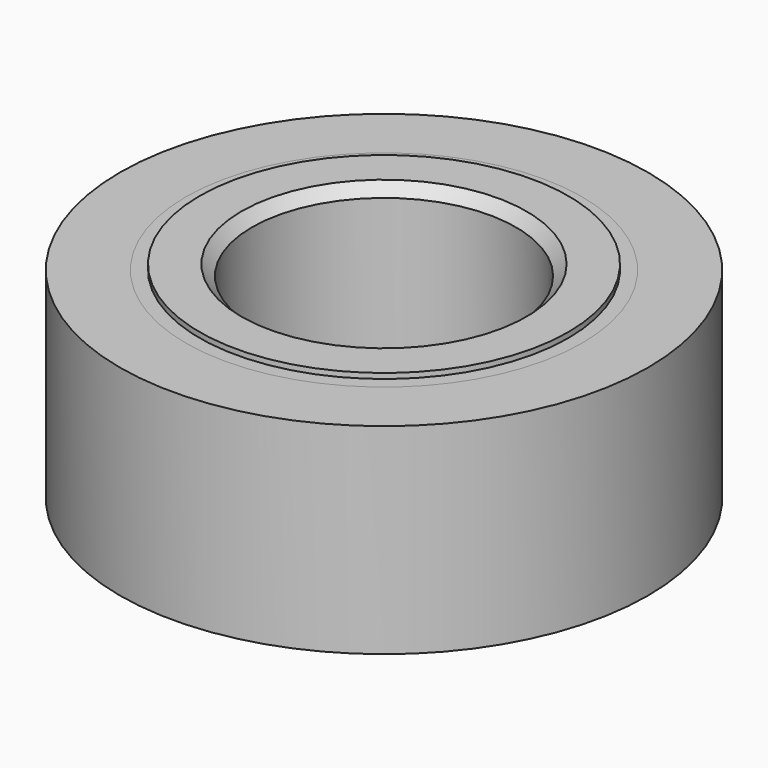
from build123d import *

# Parameters (mm, degrees)
ARRAY_COUNT  = 12
SKETCH002_R  = 3.49
PAD_DEPTH    = 0.1
SKETCH003_R  = 3.49
PAD001_DEPTH = 0.1
SKETCH004_R  = 2.5
POCKET_DEPTH = 5
CHAMFER_SIZE = 0.2


with BuildPart() as array:
    # Sphere → Sphere (revolve)
    with BuildSketch(Plane.XZ.offset(-3.75)):
        with BuildLine():
            ThreePointArc((0, -0.93), (0.93, 0), (0, 0.93))
            Line((0, 0.93), (0, -0.93))
        make_face()
    revolve(axis=Axis((0, 3.75, 0), (0, 0, 1)))

    # Array: Array ×12 about axis
    array_axis = Axis((0, 0, 0), (0, 0, 1))


with BuildPart() as array_1:
    add(array.part)
    for i in range(1, ARRAY_COUNT):
        add(array.part.rotate(array_axis, i * 360 / ARRAY_COUNT))


with BuildPart() as chamfer_body:
    # Sketch → Revolution (revolve)
    with BuildSketch(Plane.XZ):
        with BuildLine():
            Line((0, 1.9), (-3.75, 1.9))
            Line((-3.75, 1.9), (-3.75, 0.94))
            ThreePointArc((-3.75, -0.94), (-2.81, 0), (-3.75, 0.94))
            Line((-3.75, -0.94), (-3.75, -1.9))
            Line((-3.75, -1.9), (0, -1.9))
            Line((0, -1.9), (0, 1.9))
        make_face()
    revolve(axis=Axis((0, 0, 0), (0, 0, 1)))

    # Sketch002 → Pad (new body)
    with BuildSketch(Plane(origin=(0, 0, -1.9), x_dir=(1, 0, 0), z_dir=(0, 0, -1))):
        Circle(SKETCH002_R)
    extrude(amount=PAD_DEPTH)

    # Sketch003 → Pad001 (new body)
    with BuildSketch(Plane(origin=(0, 0, 1.9), x_dir=(-1, 0, 0), z_dir=(0, 0, 1))):
        Circle(SKETCH003_R)
    extrude(amount=PAD001_DEPTH)

    # Sketch004 → Pocket (cut)
    with BuildSketch(Plane(origin=(0, 0, 2), x_dir=(-1, 0, 0), z_dir=(0, 0, 1))):
        Circle(SKETCH004_R)
    extrude(amount=-POCKET_DEPTH, mode=Mode.SUBTRACT)

    # Chamfer
    chamfer_edges = [chamfer_body.edges().sort_by_distance(p)[0] for p in [
        (2.5, 0, -2),
        (2.5, 0, 2),
    ]]
    chamfer(chamfer_edges, length=CHAMFER_SIZE)


with BuildPart() as revolution001:
    # Sketch005 → Revolution001 (revolve)
    with BuildSketch(Plane.XZ):
        with BuildLine():
            Line((-3.75, 1.9), (-3.75, 0.94))
            ThreePointArc((-3.75, 0.94), (-4.69, 0), (-3.75, -0.94))
            Line((-3.75, -1.9), (-3.75, -0.94))
            Line((-3.75, -1.9), (-5, -1.9))
            Line((-5, 1.9), (-5, -1.9))
            Line((-3.75, 1.9), (-5, 1.9))
        make_face()
    revolve(axis=Axis((0, 0, 0), (0, 0, 1)))


solid = Compound([array_1.part, chamfer_body.part, revolution001.part])
